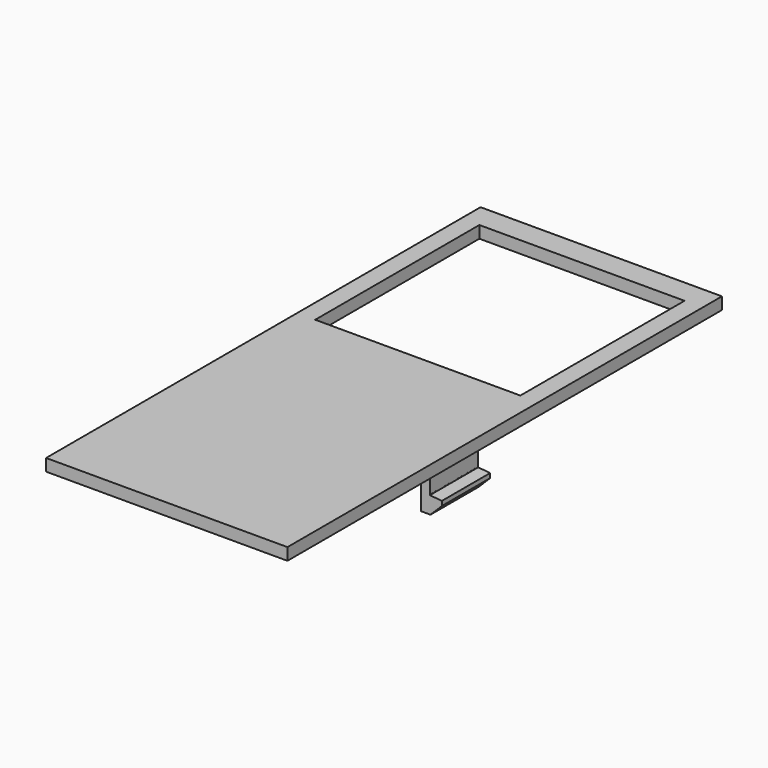
from build123d import *

# Parameters (mm, degrees)
BOX010_W               = 4
BOX010_H               = 10
BOX010_DEPTH           = 7
BOX010_PLACEMENT_ANGLE = 95
BOX009_W               = 4
BOX009_H               = 10
BOX009_DEPTH           = 7
BOX009_PLACEMENT_ANGLE = 45
BOX011_W               = 3.5
BOX011_H               = 10
BOX011_DEPTH           = 6.9
BOX008_W               = 3.5
BOX008_H               = 10
BOX008_DEPTH           = 6.9
CUT007_PLACEMENT_ANGLE = 180
BOX006_W               = 4
BOX006_H               = 10
BOX006_DEPTH           = 7
BOX006_PLACEMENT_ANGLE = 95
BOX005_W               = 4
BOX005_H               = 10
BOX005_DEPTH           = 7
BOX005_PLACEMENT_ANGLE = 45
BOX007_W               = 3.5
BOX007_H               = 10
BOX007_DEPTH           = 6.9
BOX004_W               = 3.5
BOX004_H               = 10
BOX004_DEPTH           = 6.9
BOX003_W               = 34
BOX003_H               = 34
BOX003_DEPTH           = 10
SKETCH002_W            = 40
SKETCH002_H            = 90
PAD001_DEPTH           = 2


with BuildPart() as cube010:
    # Box010 → Box010 (new body)
    with BuildSketch(Plane.XY):
        with Locations((2, 5)):
            Rectangle(BOX010_W, BOX010_H)
    extrude(amount=BOX010_DEPTH)


with BuildPart() as cube010_1:
    # Box010 placement: moved
    add(cube010.part.moved(Location((18.35, -13, 15.9))).rotate(Axis((18.35, -13, 15.9), (0, 1, 0)), BOX010_PLACEMENT_ANGLE))


with BuildPart() as fusion003:
    # Box009 → Box009 (new body)
    with BuildSketch(Plane.XY):
        with Locations((2, 5)):
            Rectangle(BOX009_W, BOX009_H)
    extrude(amount=BOX009_DEPTH)


with BuildPart() as fusion003_1:
    # Box009 placement: moved
    add(fusion003.part.moved(Location((16, -13, 7))).rotate(Axis((16, -13, 7), (0, 1, 0)), BOX009_PLACEMENT_ANGLE))

    # Fusion003: union Cube010
    add(cube010_1.part)


with BuildPart() as fusion004:
    # Box011 → Box011 (new body)
    with BuildSketch(Plane(origin=(18, -13, 12), x_dir=(1, 0, 0), z_dir=(0, 0, 1))):
        with Locations((1.75, 5)):
            Rectangle(BOX011_W, BOX011_H)
    extrude(amount=BOX011_DEPTH)

    # Fusion004: union Fusion003
    add(fusion003_1.part)


with BuildPart() as obj1:
    # Box008 → Box008 (new body)
    with BuildSketch(Plane(origin=(16.5, -13, 9.1), x_dir=(1, 0, 0), z_dir=(0, 0, 1))):
        with Locations((1.75, 5)):
            Rectangle(BOX008_W, BOX008_H)
    extrude(amount=BOX008_DEPTH)

    # Cut007: cut Fusion004
    add(fusion004.part, mode=Mode.SUBTRACT)


with BuildPart() as obj1_1:
    # Cut007 placement: moved
    add(obj1.part.moved(Location((0, -16, 0))).rotate(Axis((0, -16, 0), (0, 0, 1)), CUT007_PLACEMENT_ANGLE))


with BuildPart() as cube006:
    # Box006 → Box006 (new body)
    with BuildSketch(Plane.XY):
        with Locations((2, 5)):
            Rectangle(BOX006_W, BOX006_H)
    extrude(amount=BOX006_DEPTH)


with BuildPart() as cube006_1:
    # Box006 placement: moved
    add(cube006.part.moved(Location((18.35, -13, 15.9))).rotate(Axis((18.35, -13, 15.9), (0, 1, 0)), BOX006_PLACEMENT_ANGLE))


with BuildPart() as fusion001:
    # Box005 → Box005 (new body)
    with BuildSketch(Plane.XY):
        with Locations((2, 5)):
            Rectangle(BOX005_W, BOX005_H)
    extrude(amount=BOX005_DEPTH)


with BuildPart() as fusion001_1:
    # Box005 placement: moved
    add(fusion001.part.moved(Location((16, -13, 7))).rotate(Axis((16, -13, 7), (0, 1, 0)), BOX005_PLACEMENT_ANGLE))

    # Fusion001: union Cube006
    add(cube006_1.part)


with BuildPart() as fusion002:
    # Box007 → Box007 (new body)
    with BuildSketch(Plane(origin=(18, -13, 12), x_dir=(1, 0, 0), z_dir=(0, 0, 1))):
        with Locations((1.75, 5)):
            Rectangle(BOX007_W, BOX007_H)
    extrude(amount=BOX007_DEPTH)

    # Fusion002: union Fusion001
    add(fusion001_1.part)


with BuildPart() as obj2:
    # Box004 → Box004 (new body)
    with BuildSketch(Plane(origin=(16.5, -13, 9.1), x_dir=(1, 0, 0), z_dir=(0, 0, 1))):
        with Locations((1.75, 5)):
            Rectangle(BOX004_W, BOX004_H)
    extrude(amount=BOX004_DEPTH)

    # Cut006: cut Fusion002
    add(fusion002.part, mode=Mode.SUBTRACT)

    # Fusion005: union obj1
    add(obj1_1.part)


with BuildPart() as cube003:
    # Box003 → Box003 (new body)
    with BuildSketch(Plane(origin=(-17, 7, 10), x_dir=(1, 0, 0), z_dir=(0, 0, 1))):
        with Locations((17, 17)):
            Rectangle(BOX003_W, BOX003_H)
    extrude(amount=BOX003_DEPTH)


with BuildPart() as obj3:
    # Sketch002 → Pad001 (new body)
    with BuildSketch(Plane.XY.offset(16)):
        Rectangle(SKETCH002_W, SKETCH002_H)
    extrude(amount=PAD001_DEPTH)

    # Cut005: cut Cube003
    add(cube003.part, mode=Mode.SUBTRACT)

    # Fusion006: union obj2
    add(obj2.part)


solid = obj3.part
